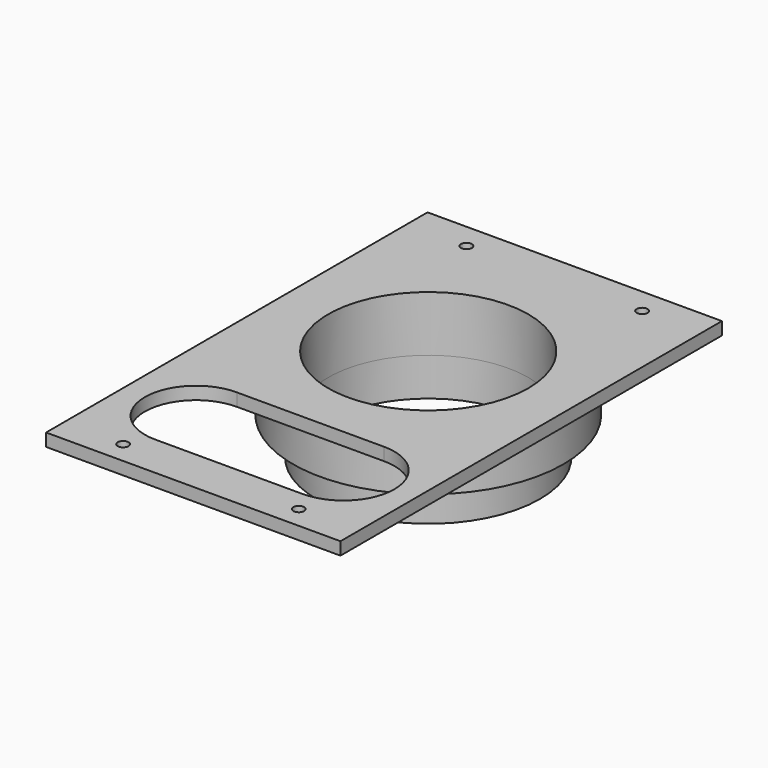
from build123d import *

# Parameters (mm, degrees)
SKETCH107_W     = 92.613678
SKETCH107_H     = 150
SKETCH107_R     = 1.7
PAD044_DEPTH    = 4
SKETCH106_R     = 42.5
PAD043_DEPTH    = 13.5
SKETCH105_R     = 35.15
SKETCH105_R_2   = 31.5
PAD042_DEPTH    = 12
SKETCH130_R     = 31.5
POCKET023_DEPTH = 20


with BuildPart() as part:
    # Sketch107 → Pad044 (new body)
    with BuildSketch(Plane.XY):
        with Locations((0, -17.3981255757)):
            Rectangle(SKETCH107_W, SKETCH107_H)
        with Locations((-27.6317588753, 49.5634491508)):
            Circle(SKETCH107_R, mode=Mode.SUBTRACT)
        with Locations((27.6317588753, 49.5634491508)):
            Circle(SKETCH107_R, mode=Mode.SUBTRACT)
        with Locations((27.6317588753, -85.4365508492)):
            Circle(SKETCH107_R, mode=Mode.SUBTRACT)
        with Locations((-27.6317588753, -85.4365508492)):
            Circle(SKETCH107_R, mode=Mode.SUBTRACT)
        with BuildLine():
            ThreePointArc((-23.0708364387, -46.4607558182), (-39.1290583868, -62.5189777662), (-23.0708364387, -78.5771997143))
            Line((-23.0708364387, -78.5771997143), (23.317797, -78.5771997143))
            ThreePointArc((23.317797, -78.5771997143), (39.3760189481, -62.5189777662), (23.317797, -46.4607558182))
            Line((-23.0708364387, -46.4607558182), (23.317797, -46.4607558182))
        make_face(mode=Mode.SUBTRACT)
    extrude(amount=PAD044_DEPTH)

    # Sketch106 (on Face13 of Pad044) → Pad043 (join)
    with BuildSketch(Plane(origin=(0, 0, 0), x_dir=(1, 0, 0), z_dir=(0, 0, -1))):
        Circle(SKETCH106_R)
    extrude(amount=PAD043_DEPTH)

    # Sketch105 (on Face16 of Pad043) → Pad042 (join)
    with BuildSketch(Plane(origin=(0, 0, -13.5), x_dir=(1, 0, 0), z_dir=(0, 0, -1))):
        Circle(SKETCH105_R)
        Circle(SKETCH105_R_2, mode=Mode.SUBTRACT)
    extrude(amount=PAD042_DEPTH)

    # Sketch130 (on Face20 of Pad042) → Pocket023 (cut)
    with BuildSketch(Plane(origin=(0, 0, -13.5), x_dir=(1, 0, 0), z_dir=(0, 0, -1))):
        Circle(SKETCH130_R)
    extrude(amount=-POCKET023_DEPTH, mode=Mode.SUBTRACT)


with BuildPart() as part_1:
    # Body012 placement: moved
    add(part.part.moved(Location((-18.5, 10, 19))))


solid = part_1.part
